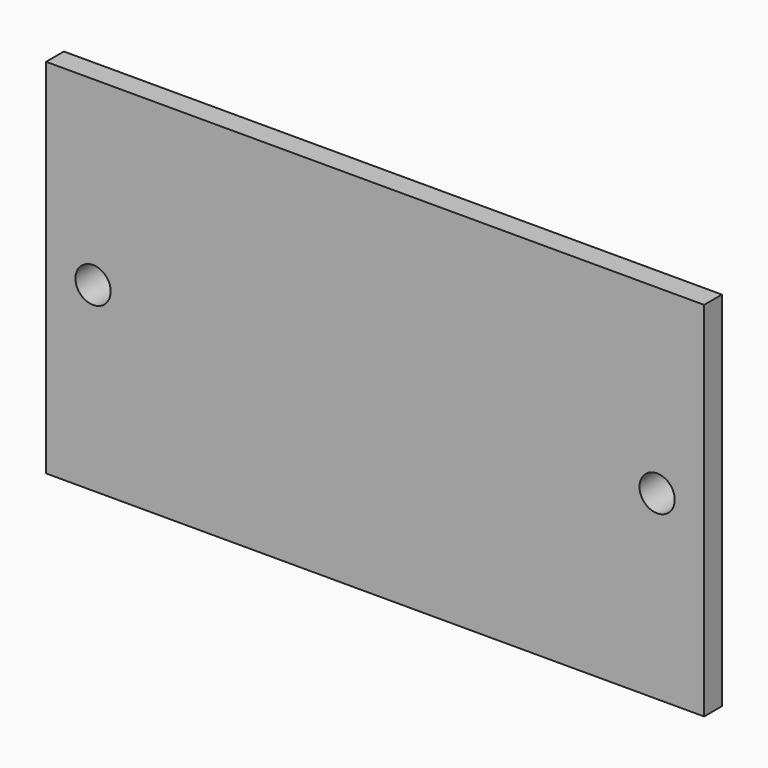
from build123d import *

# Parameters (mm, degrees)
F0_W     = 49.6
F0_H     = 25.7
F0_R     = 1.425
F1_DEPTH = 3.6
F0_W_2   = 53.2
F0_H_2   = 29.3
F2_DEPTH = 1.8


with BuildPart() as f1:
    # F0 (on Front) → F1 (new body)
    with BuildSketch(Plane.XZ):
        Rectangle(F0_W, F0_H)
        with Locations((-22.8, 0)):
            Circle(F0_R, mode=Mode.SUBTRACT)
        with Locations((22.8, 0)):
            Circle(F0_R, mode=Mode.SUBTRACT)
    extrude(amount=-F1_DEPTH)

    # F0 (on Front) → F2 (join)
    with BuildSketch(Plane.XZ):
        Rectangle(F0_W_2, F0_H_2)
        Rectangle(F0_W, F0_H, mode=Mode.SUBTRACT)
    extrude(amount=-F2_DEPTH)


solid = f1.part
